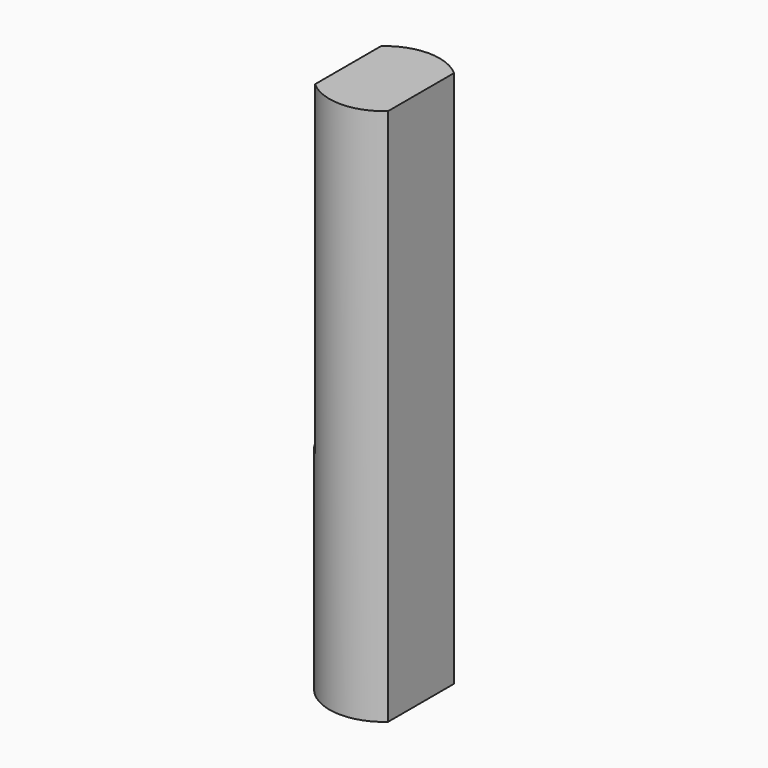
from build123d import *

# Parameters (mm, degrees)
BOX005_W          = 10
BOX005_H          = 10
BOX005_DEPTH      = 40
BOX004_W          = 10
BOX004_H          = 10
BOX004_DEPTH      = 40
CYLINDER011_R     = 3.7
CYLINDER011_DEPTH = 36.1


with BuildPart() as cube005:
    # Box005 → Box005 (new body)
    with BuildSketch(Plane(origin=(-1.85, -5, 5), x_dir=(1, 0, 0), z_dir=(0, 0, 1))):
        with Locations((5, 5)):
            Rectangle(BOX005_W, BOX005_H)
    extrude(amount=BOX005_DEPTH)


with BuildPart() as cube004:
    # Box004 → Box004 (new body)
    with BuildSketch(Plane(origin=(13.05, -5, -11), x_dir=(1, 0, 0), z_dir=(0, 0, 1))):
        with Locations((5, 5)):
            Rectangle(BOX004_W, BOX004_H)
    extrude(amount=BOX004_DEPTH)


with BuildPart() as drive:
    # Cylinder011 → Cylinder011 (new body)
    with BuildSketch(Plane(origin=(10.6, 0, -9.2), x_dir=(1, 0, 0), z_dir=(0, 0, 1))):
        Circle(CYLINDER011_R)
    extrude(amount=CYLINDER011_DEPTH)

    # Cut005: cut Cube004
    add(cube004.part, mode=Mode.SUBTRACT)

    # Cut006: cut Cube005
    add(cube005.part, mode=Mode.SUBTRACT)


with BuildPart() as drive_1:
    # Cut006 placement: moved
    add(drive.part.moved(Location((-10.6, 0, 3))))


solid = drive_1.part
